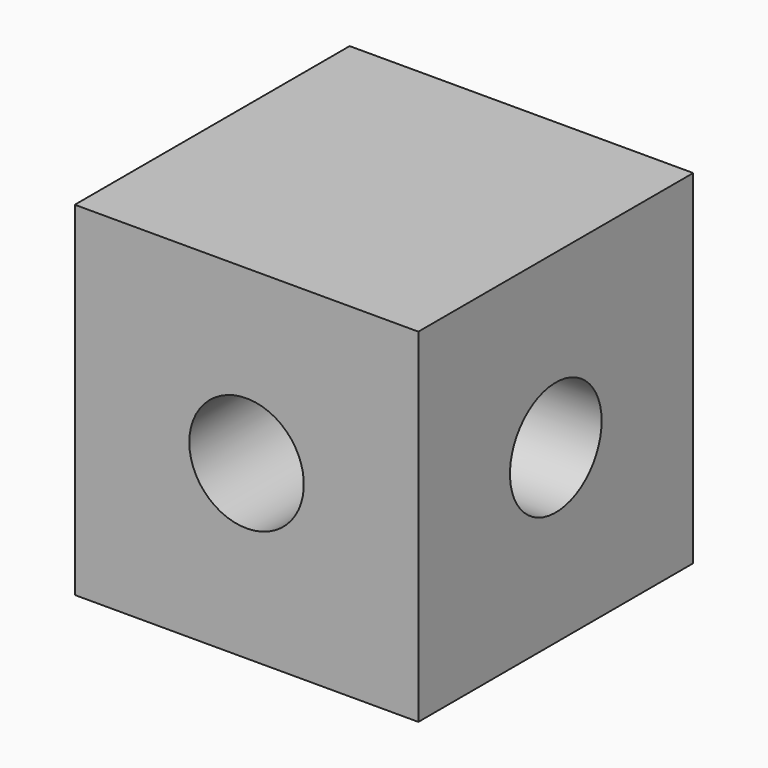
from build123d import *

# Parameters (mm, degrees)
F0_W       = 38.1
F0_H       = 38.1
F1_DEPTH   = 19.05
F4_D       = 12.7
F4_ON_F3_D = 12.7


with BuildPart() as f1:
    # F0 (on Front) → F1 (new body, symmetric)
    with BuildSketch(Plane.XZ):
        Rectangle(F0_W, F0_H)
    extrude(amount=F1_DEPTH, both=True)

    # F4 (through all)
    with Locations(Plane.XZ.offset(19.05)):
        with Locations((0, 0)):
            Hole(F4_D / 2)

    # F4 on F3 (through all)
    with Locations(Plane(origin=(-19.05, 0, 0), x_dir=(0, -1, 0), z_dir=(-1, 0, 0))):
        with Locations((0, 0)):
            Hole(F4_ON_F3_D / 2)


solid = f1.part
